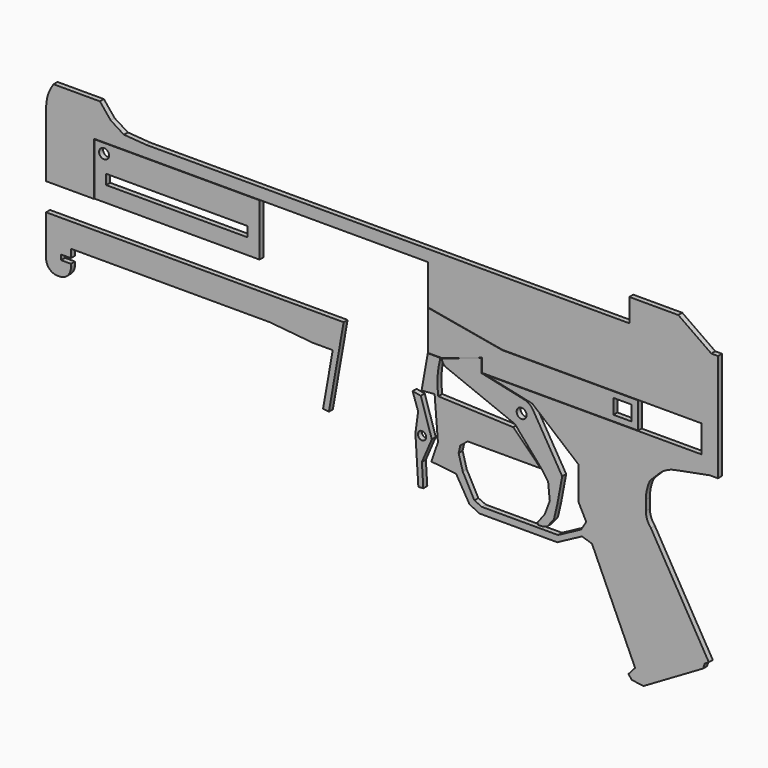
from build123d import *

# Parameters (mm, degrees)
F0_R     = 3
F0_W     = 11
F0_H     = 9
F0_W_2   = 99.587
F0_H_2   = 31.5
F0_W_3   = 85.337
F0_H_3   = 6
F0_R_2   = 2.5
F1_DEPTH = 3


with BuildPart() as f1:
    # F0 (on Front) → F1 (new body)
    with BuildSketch(Plane.XZ):
        with BuildLine():
            Line((48.5, -65), (53.5, -65))
            Line((53.5, -65), (53.5, 0))
            Line((53.5, 0), (49.5, 0))
            Line((49.5, 0), (29.55, 14))
            Line((29.55, 14), (0, 14))
            Line((0, 14), (0, 0))
            Line((0, 0), (-291.5, 0))
            Line((-291.5, 0), (-305, 1))
            Line((-305, 1), (-313, 6))
            Line((-313, 6), (-319.5, 14))
            Line((-319.5, 14), (-347.5, 14))
            ThreePointArc((-347.5, 14), (-350.847353, 7.352721), (-352, 0))
            Line((-352, 0), (-352, -39))
            Line((-352, -39), (-323, -39))
            Line((-323, -39), (-323, -7))
            Line((-323, -7), (-209, -7))
            Line((-209, -7), (-121.642947, -7))
            Line((-121.642947, -7), (-121.642947, -31))
            Line((-121.642947, -31), (-76.5, -39))
            Line((-76.5, -39), (43.5, -39))
            Line((43.5, -39), (43.5, -55.5))
            Line((43.5, -55.5), (-87, -55.5))
            Line((-87, -55.5), (-58.5, -61.741119))
            Line((-58.5, -61.741119), (-30.75, -84.915683))
            Line((-30.75, -84.915683), (-30.75, -104.75))
            Line((-30.75, -104.75), (-26, -114))
            Line((-26, -114), (-29, -119))
            Line((-29, -119), (-43, -126.5))
            Line((-43, -126.5), (-89, -126.5))
            Line((-89, -126.5), (-93.5, -124.5))
            Line((-93.5, -124.5), (-100.5, -111.5))
            Line((-100.5, -111.5), (-103, -102.5))
            Line((-103, -102.5), (-102, -98))
            Line((-102, -98), (-97.5, -94.5))
            Line((-97.5, -94.5), (-53.5, -94.5))
            Line((-53.5, -94.5), (-70, -78))
            Line((-70, -78), (-115.3, -76.29109))
            ThreePointArc((-115.3, -76.29109), (-115.726619, -65.828228), (-114, -55.5))
            Line((-114, -55.5), (-121.642947, -55.5))
            Line((-121.642947, -55.5), (-125.345814, -76.5))
            Line((-125.345814, -76.5), (-117.5, -75.830911))
            Line((-117.5, -75.830911), (-115.5, -100.830911))
            Line((-115.5, -100.830911), (-119.5, -112.330911))
            Line((-119.5, -112.330911), (-104.5, -114))
            Line((-104.5, -114), (-96.5, -127.5))
            Line((-96.5, -127.5), (-90.5, -130.5))
            Line((-90.5, -130.5), (-43.5, -130.5))
            Line((-43.5, -130.5), (-28.5, -122.5))
            Line((-28.5, -122.5), (-22.5, -124.5))
            Line((-22.5, -124.5), (3.5, -182))
            Line((3.5, -182), (-0.5, -186.5))
            Line((-0.5, -186.5), (1.5, -189))
            Line((1.5, -189), (8.5, -190))
            Line((8.5, -190), (44.5, -169))
            Line((44.5, -169), (45.5, -166))
            Line((45.5, -166), (48, -164.5))
            Line((48, -164.5), (13, -104.5))
            ThreePointArc((13, -104.5), (10.774662, -100.772002), (10, -96.5))
            Line((10, -96.5), (10, -90.5))
            ThreePointArc((10, -90.5), (10.632869, -84.859743), (12.5, -79.5))
            Line((12.5, -79.5), (18.5, -73.5))
            ThreePointArc((18.5, -73.5), (22.688172, -70.626344), (27.5, -69))
            Line((27.5, -69), (48.5, -65))
        make_face()
        with BuildLine():
            ThreePointArc((-352, -80), (-349.949747, -84.949747), (-345, -87))
            Line((-345, -87), (-344, -87))
            ThreePointArc((-344, -87), (-339.050253, -84.949747), (-337, -80))
            Line((-337, -80), (-337, -78))
            Line((-337, -78), (-343, -78))
            Line((-343, -78), (-343, -75))
            Line((-343, -75), (-337, -75))
            Line((-337, -75), (-337, -70))
            Line((-337, -70), (-217, -70))
            Line((-217, -70), (-191, -72.5))
            Line((-191, -72.5), (-179, -72.5))
            Line((-179, -72.5), (-184.81879, -105.5))
            Line((-184.81879, -105.5), (-181.31879, -106))
            Line((-181.31879, -106), (-172.414278, -55.5))
            Line((-172.414278, -55.5), (-352, -55.5))
            Line((-352, -55.5), (-352, -80))
        make_face()
        with BuildLine():
            Line((-51, -118), (-55.5, -124))
            Line((-55.5, -124), (-55, -125))
            Line((-55, -125), (-52.5, -125))
            Line((-52.5, -125), (-49.5, -124))
            Line((-49.5, -124), (-45.5, -119))
            Line((-45.5, -119), (-43.5, -110.5))
            Line((-43.5, -110.5), (-40.5, -94.5))
            Line((-40.5, -94.5), (-58.126826, -64.906166))
            ThreePointArc((-58.126826, -64.906166), (-60.321871, -62.510385), (-63.28866, -61.185186))
            Line((-63.28866, -61.185186), (-89.25, -55.5))
            Line((-89.25, -55.5), (-89.25, -47.5))
            Line((-89.25, -47.5), (-113.25, -55.5))
            ThreePointArc((-113.25, -55.5), (-112.310832, -57.920624), (-110.25, -59.5))
            Line((-110.25, -59.5), (-69, -76))
            Line((-69, -76), (-53, -94.5))
            Line((-53, -94.5), (-49, -100))
            Line((-49, -100), (-48, -110))
            Line((-48, -110), (-51, -118))
        make_face()
        with Locations((-65, -69)):
            Circle(F0_R, mode=Mode.SUBTRACT)
        Polygon((-121.642947, -31.25), (-121.642947, -55.25), (-113, -55.25), (-89, -47.25), (-89, -55.25), (5.357053, -55.25), (5.357053, -39.25), (-76.5, -39.25), align=None)
        with Locations((-4.142947, -47.25)):
            Rectangle(F0_W, F0_H, mode=Mode.SUBTRACT)
        with Locations((-272.9565, -23)):
            Rectangle(F0_W_2, F0_H_2)
        with Locations((-317, -13)):
            Circle(F0_R, mode=Mode.SUBTRACT)
        with Locations((-273.0815, -26.25)):
            Rectangle(F0_W_3, F0_H_3, mode=Mode.SUBTRACT)
        Polygon((-124.324515, -128.134284), (-125.1976, -114.450121), (-119.1976, -100.450121), (-125.866758, -79.454423), (-130.790797, -78.586182), (-127.429592, -88.317693), (-129.101274, -100.38212), (-127.318428, -128.325303), align=None)
        with Locations((-125.101274, -100.409585)):
            Circle(F0_R_2, mode=Mode.SUBTRACT)
    extrude(amount=F1_DEPTH)


solid = f1.part
